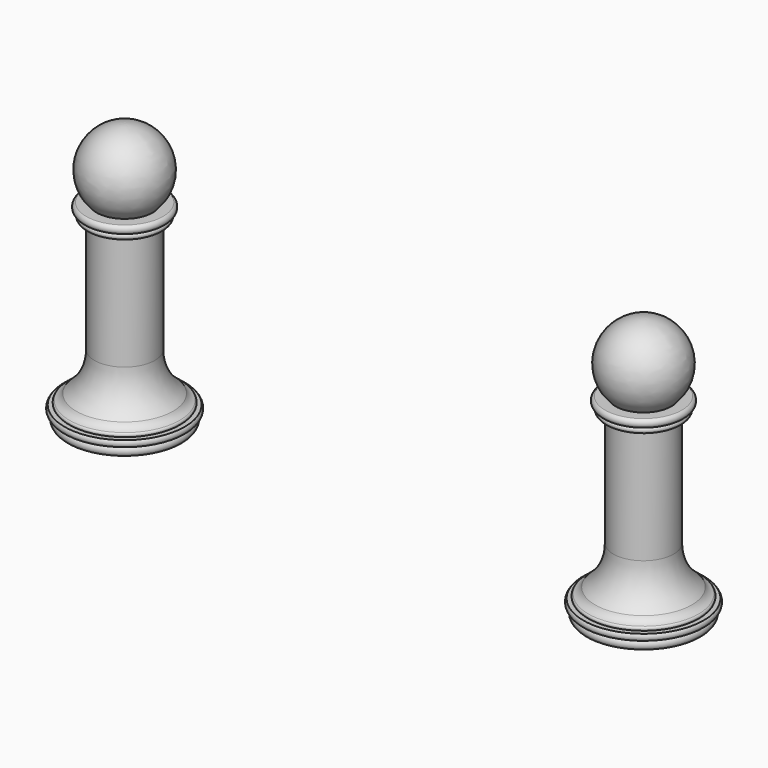
from build123d import *


with BuildPart() as f1:
    # F0 (on Front) → F1 (revolve)
    with BuildSketch(Plane.XZ):
        with BuildLine():
            Line((0, 29.885562), (0, 0))
            Line((0, 0), (9.406043, 0))
            ThreePointArc((9.406043, 0), (9.702429, 0.663297), (9.406043, 1.326594))
            Line((9.406043, 1.326594), (8.894733, 1.326594))
            Line((8.894733, 1.326594), (8.894733, 1.585829))
            Line((8.894733, 1.585829), (10.002056, 1.585829))
            ThreePointArc((10.002056, 1.585829), (10.209498, 2.101899), (10.002056, 2.617969))
            Line((10.002056, 2.617969), (9.155587, 2.617969))
            ThreePointArc((9.155587, 2.617969), (9.360575, 2.950297), (9.155587, 3.282625))
            ThreePointArc((9.155587, 3.282625), (8.496393, 3.655718), (8.035539, 4.256839))
            ThreePointArc((8.035539, 4.256839), (5.782906, 7.143218), (5.026662, 10.725624))
            Line((5.026662, 10.725624), (5.026662, 29.775624))
            Line((5.026662, 29.775624), (5.171404, 29.775624))
            Line((5.171404, 29.775624), (5.865371, 29.885562))
            ThreePointArc((5.865371, 29.885562), (6.333711, 30.323259), (6.030831, 30.888224))
            ThreePointArc((6.030831, 30.888224), (6.213186, 30.886228), (6.390084, 30.930548))
            Line((6.390084, 30.930548), (6.390084, 30.932147))
            Line((6.390084, 30.932147), (6.394125, 30.932147))
            ThreePointArc((6.394125, 30.932147), (6.842872, 31.594454), (6.394125, 32.256762))
            Line((6.394125, 32.256762), (5.865371, 32.256762))
            Line((5.865371, 32.256762), (4.663748, 32.256762))
            ThreePointArc((4.663748, 32.256762), (6.179604, 39.547363), (0, 43.702261))
            Line((0, 43.702261), (0, 30.356404))
            Line((0, 30.356404), (0, 29.885562))
        make_face()
    revolve(axis=Axis((0, 0, 15.178202), (0, 0, 1)))


with BuildPart() as f2:
    # F0 (on Front) → F2 (revolve)
    with BuildSketch(Plane.XZ):
        with BuildLine():
            Line((-86.332811, 30.17752), (-86.332811, 0.291958))
            Line((-86.332811, 0.291958), (-76.926769, 0.291958))
            ThreePointArc((-76.926769, 0.291958), (-76.630382, 0.955255), (-76.926769, 1.618552))
            Line((-76.926769, 1.618552), (-77.438079, 1.618552))
            Line((-77.438079, 1.618552), (-77.438079, 1.877787))
            Line((-77.438079, 1.877787), (-76.330755, 1.877787))
            ThreePointArc((-76.330755, 1.877787), (-76.123313, 2.393857), (-76.330755, 2.909927))
            Line((-76.330755, 2.909927), (-77.177224, 2.909927))
            ThreePointArc((-77.177224, 2.909927), (-76.972237, 3.242255), (-77.177224, 3.574583))
            ThreePointArc((-77.177224, 3.574583), (-77.836418, 3.947675), (-78.297272, 4.548797))
            ThreePointArc((-78.297272, 4.548797), (-80.549906, 7.435176), (-81.306149, 11.017582))
            Line((-81.306149, 11.017582), (-81.306149, 30.067582))
            Line((-81.306149, 30.067582), (-81.161408, 30.067582))
            Line((-81.161408, 30.067582), (-80.467441, 30.17752))
            ThreePointArc((-80.467441, 30.17752), (-79.9991, 30.615217), (-80.30198, 31.180182))
            ThreePointArc((-80.30198, 31.180182), (-80.119625, 31.178186), (-79.942727, 31.222506))
            Line((-79.942727, 31.222506), (-79.942727, 31.224105))
            Line((-79.942727, 31.224105), (-79.938686, 31.224105))
            ThreePointArc((-79.938686, 31.224105), (-79.489939, 31.886412), (-79.938686, 32.548719))
            Line((-79.938686, 32.548719), (-80.467441, 32.548719))
            Line((-80.467441, 32.548719), (-81.669063, 32.548719))
            ThreePointArc((-81.669063, 32.548719), (-80.153207, 39.839321), (-86.332811, 43.994219))
            Line((-86.332811, 43.994219), (-86.332811, 30.648361))
            Line((-86.332811, 30.648361), (-86.332811, 30.17752))
        make_face()
    revolve(axis=Axis((-86.332811, 0, 15.47016), (0, 0, 1)))


solid = Compound([f1.part, f2.part])
